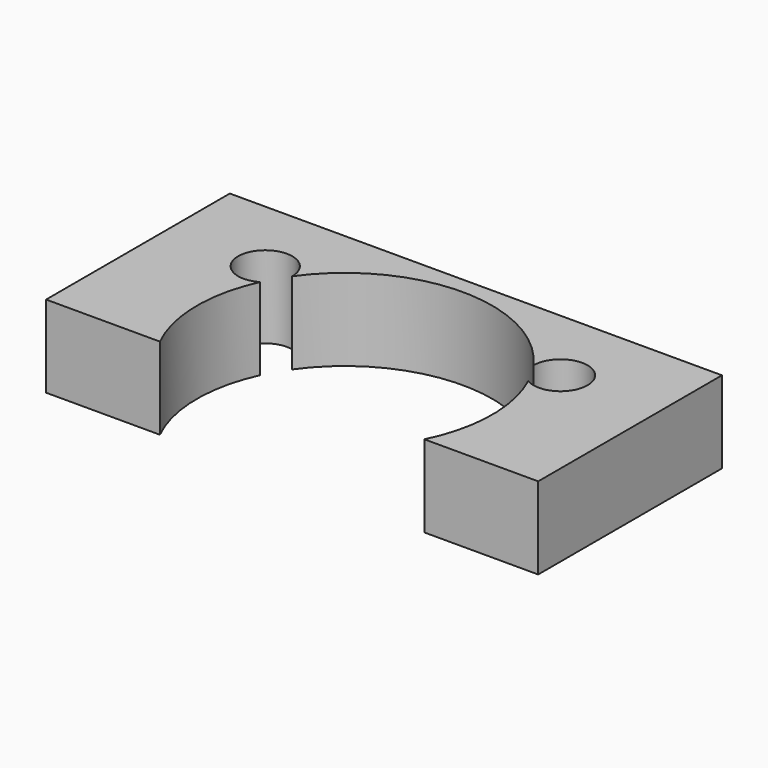
from build123d import *

# Parameters (mm, degrees)
F1_DEPTH = 5


with BuildPart() as f1:
    # F0 (on Top) → F1 (new body)
    with BuildSketch(Plane.XY):
        with BuildLine():
            Line((15, -5.513473), (15, 8.486527))
            Line((15, 8.486527), (-15, 8.486527))
            Line((-15, 8.486527), (-15, -5.513473))
            Line((-15, -5.513473), (-10.246951, -5.513473))
            add(Edge.make_bspline(
                [(-10.246951, -5.513473), (-10.004207, -5.513473), (-9.51872, -5.513473), (-8.790489, -5.513473), (-8.305001, -5.513473), (-8.062258, -5.513473)],
                knots=[0, 0, 0, 0, 0.728231, 1.456462, 2.184693, 2.184693, 2.184693, 2.184693], degree=3))
            ThreePointArc((-8.062258, -5.513473), (-8.999124, -1.639011), (-8.170699, 2.260077))
            ThreePointArc((-8.170699, 2.260077), (-10.428677, 4.511985), (-7.350011, 3.680498))
            ThreePointArc((-7.350011, 3.680498), (0, 7.486527), (7.350011, 3.680498))
            ThreePointArc((7.350011, 3.680498), (10.428677, 4.511985), (8.170699, 2.260077))
            ThreePointArc((8.170699, 2.260077), (8.999124, -1.639011), (8.062258, -5.513473))
            add(Edge.make_bspline(
                [(8.062258, -5.513473), (8.305001, -5.513473), (8.790489, -5.513473), (9.51872, -5.513473), (10.004207, -5.513473), (10.246951, -5.513473)],
                knots=[0, 0, 0, 0, 0.728231, 1.456462, 2.184693, 2.184693, 2.184693, 2.184693], degree=3))
            Line((10.246951, -5.513473), (15, -5.513473))
        make_face()
    extrude(amount=F1_DEPTH)


solid = f1.part
